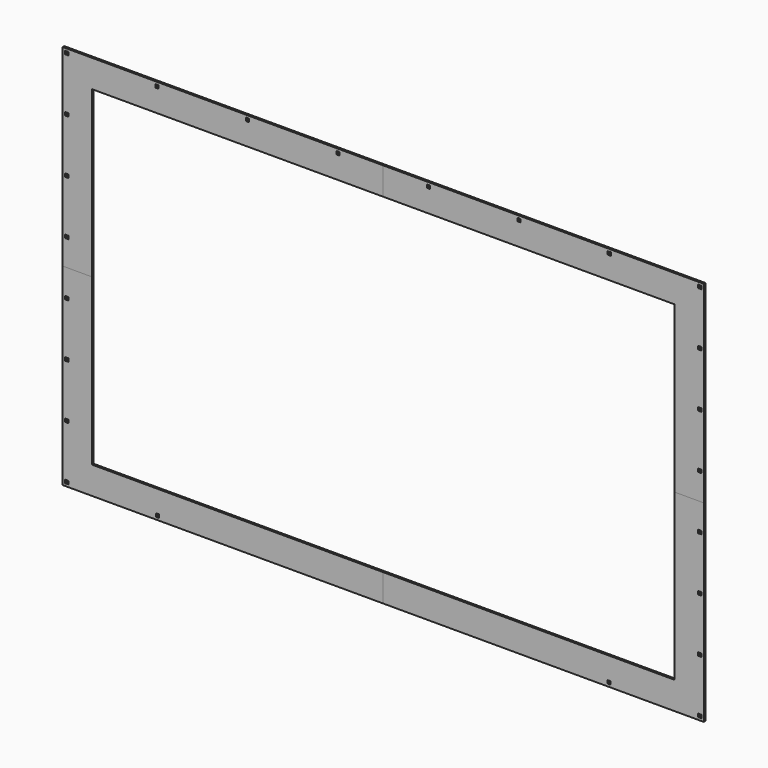
from build123d import *

# Parameters (mm, degrees)
F1_DEPTH = 1.5875
F0_W     = 5.08
F0_H     = 5.08
F2_DEPTH = 1.5875
F3_DEPTH = 1.5875
F4_DEPTH = 1.5875


with BuildPart() as f1:
    # F0 (on Front) → F1 (new body, symmetric)
    with BuildSketch(Plane.XZ):
        Polygon((-508, 0), (-501.65, 0), (-501.65, 40.209107), (-504.19, 40.209107), (-504.19, 45.289107), (-501.65, 45.289107), (-501.65, 125.707321), (-504.19, 125.707321), (-504.19, 130.787321), (-501.65, 130.787321), (-501.65, 211.205536), (-504.19, 211.205536), (-504.19, 216.285536), (-501.65, 216.285536), (-501.65, 296.70375), (-504.19, 296.70375), (-504.19, 301.78375), (-508, 305.59375), align=None)
        Polygon((-495.3, 0), (-495.3, 292.89375), (-499.11, 296.70375), (-501.65, 296.70375), (-501.65, 216.285536), (-499.11, 216.285536), (-499.11, 211.205536), (-501.65, 211.205536), (-501.65, 130.787321), (-499.11, 130.787321), (-499.11, 125.707321), (-501.65, 125.707321), (-501.65, 45.289107), (-499.11, 45.289107), (-499.11, 40.209107), (-501.65, 40.209107), (-501.65, 0), align=None)
        Polygon((0, 261.925), (0, 276.225), (-475.996, 276.225), (-475.996, 0), (-461.696, 0), (-461.696, 261.925), align=None)
        Polygon((-495.3, 292.89375), (0, 292.89375), (0, 299.24375), (-69.124286, 299.24375), (-69.124286, 296.70375), (-74.204286, 296.70375), (-74.204286, 299.24375), (-212.452857, 299.24375), (-212.452857, 296.70375), (-217.532857, 296.70375), (-217.532857, 299.24375), (-355.781429, 299.24375), (-355.781429, 296.70375), (-360.861429, 296.70375), (-360.861429, 299.24375), (-499.11, 299.24375), (-499.11, 296.70375), align=None)
        Polygon((-69.124286, 299.24375), (0, 299.24375), (0, 305.59375), (-508, 305.59375), (-504.19, 301.78375), (-499.11, 301.78375), (-499.11, 299.24375), (-360.861429, 299.24375), (-360.861429, 301.78375), (-355.781429, 301.78375), (-355.781429, 299.24375), (-217.532857, 299.24375), (-217.532857, 301.78375), (-212.452857, 301.78375), (-212.452857, 299.24375), (-74.204286, 299.24375), (-74.204286, 301.78375), (-69.124286, 301.78375), align=None)
        Polygon((0, 276.225), (0, 292.89375), (-495.3, 292.89375), (-495.3, 0), (-475.996, 0), (-475.996, 276.225), align=None)
    extrude(amount=F1_DEPTH, both=True)


with BuildPart() as f2:
    # F0 (on Front) → F2 (new body, symmetric)
    with BuildSketch(Plane.XZ):
        Polygon((0, 305.59375), (0, 299.24375), (69.124286, 299.24375), (69.124286, 301.78375), (74.204286, 301.78375), (74.204286, 299.24375), (212.452857, 299.24375), (212.452857, 301.78375), (217.532857, 301.78375), (217.532857, 299.24375), (355.781429, 299.24375), (355.781429, 301.78375), (360.861429, 301.78375), (360.861429, 299.24375), (499.11, 299.24375), (499.11, 301.78375), (504.19, 301.78375), (508, 305.59375), align=None)
        Polygon((0, 292.89375), (495.3, 292.89375), (499.11, 296.70375), (499.11, 299.24375), (360.861429, 299.24375), (360.861429, 296.70375), (355.781429, 296.70375), (355.781429, 299.24375), (217.532857, 299.24375), (217.532857, 296.70375), (212.452857, 296.70375), (212.452857, 299.24375), (74.204286, 299.24375), (74.204286, 296.70375), (69.124286, 296.70375), (69.124286, 299.24375), (0, 299.24375), align=None)
        Polygon((495.3, 0), (495.3, 292.89375), (0, 292.89375), (0, 276.225), (475.996, 276.225), (475.996, 0), align=None)
        Polygon((475.996, 276.225), (0, 276.225), (0, 261.925), (461.696, 261.925), (461.696, 0), (475.996, 0), align=None)
        Polygon((499.11, 296.70375), (495.3, 292.89375), (495.3, 0), (508, 0), (508, 305.59375), (504.19, 301.78375), (504.19, 296.70375), align=None)
        with Locations((501.65, 42.749107)):
            Rectangle(F0_W, F0_H, mode=Mode.SUBTRACT)
        with Locations((501.65, 128.247321)):
            Rectangle(F0_W, F0_H, mode=Mode.SUBTRACT)
        with Locations((501.65, 213.745536)):
            Rectangle(F0_W, F0_H, mode=Mode.SUBTRACT)
    extrude(amount=F2_DEPTH, both=True)


with BuildPart() as f3:
    # F0 (on Front) → F3 (new body, symmetric)
    with BuildSketch(Plane.XZ):
        Polygon((508, 0), (495.3, 0), (495.3, -292.89375), (499.11, -296.70375), (504.19, -296.70375), (504.19, -301.78375), (508, -305.59375), align=None)
        with Locations((501.65, -213.745536)):
            Rectangle(F0_W, F0_H, mode=Mode.SUBTRACT)
        with Locations((501.65, -128.247321)):
            Rectangle(F0_W, F0_H, mode=Mode.SUBTRACT)
        with Locations((501.65, -42.749107)):
            Rectangle(F0_W, F0_H, mode=Mode.SUBTRACT)
        Polygon((495.3, -292.89375), (495.3, 0), (475.996, 0), (475.996, -276.225), (0, -276.225), (0, -292.89375), align=None)
        Polygon((475.996, -276.225), (475.996, 0), (461.696, 0), (461.696, -261.925), (0, -261.925), (0, -276.225), align=None)
        Polygon((499.11, -296.70375), (495.3, -292.89375), (0, -292.89375), (0, -305.59375), (508, -305.59375), (504.19, -301.78375), (499.11, -301.78375), align=None)
        with Locations((357.84, -299.24375)):
            Rectangle(F0_W, F0_H, mode=Mode.SUBTRACT)
    extrude(amount=F3_DEPTH, both=True)


with BuildPart() as f4:
    # F0 (on Front) → F4 (new body, symmetric)
    with BuildSketch(Plane.XZ):
        Polygon((0, -305.59375), (0, -292.89375), (-495.3, -292.89375), (-499.11, -296.70375), (-499.11, -301.78375), (-504.19, -301.78375), (-508, -305.59375), align=None)
        with Locations((-357.84, -299.24375)):
            Rectangle(F0_W, F0_H, mode=Mode.SUBTRACT)
        Polygon((-475.996, 0), (-495.3, 0), (-495.3, -292.89375), (0, -292.89375), (0, -276.225), (-475.996, -276.225), align=None)
        Polygon((-461.696, 0), (-475.996, 0), (-475.996, -276.225), (0, -276.225), (0, -261.925), (-461.696, -261.925), align=None)
        Polygon((-495.3, -292.89375), (-495.3, 0), (-501.65, 0), (-501.65, -40.209107), (-499.11, -40.209107), (-499.11, -45.289107), (-501.65, -45.289107), (-501.65, -125.707321), (-499.11, -125.707321), (-499.11, -130.787321), (-501.65, -130.787321), (-501.65, -211.205536), (-499.11, -211.205536), (-499.11, -216.285536), (-501.65, -216.285536), (-501.65, -296.70375), (-499.11, -296.70375), align=None)
        Polygon((-501.65, -40.209107), (-501.65, 0), (-508, 0), (-508, -305.59375), (-504.19, -301.78375), (-504.19, -296.70375), (-501.65, -296.70375), (-501.65, -216.285536), (-504.19, -216.285536), (-504.19, -211.205536), (-501.65, -211.205536), (-501.65, -130.787321), (-504.19, -130.787321), (-504.19, -125.707321), (-501.65, -125.707321), (-501.65, -45.289107), (-504.19, -45.289107), (-504.19, -40.209107), align=None)
    extrude(amount=F4_DEPTH, both=True)


solid = Compound([f1.part, f2.part, f3.part, f4.part])
